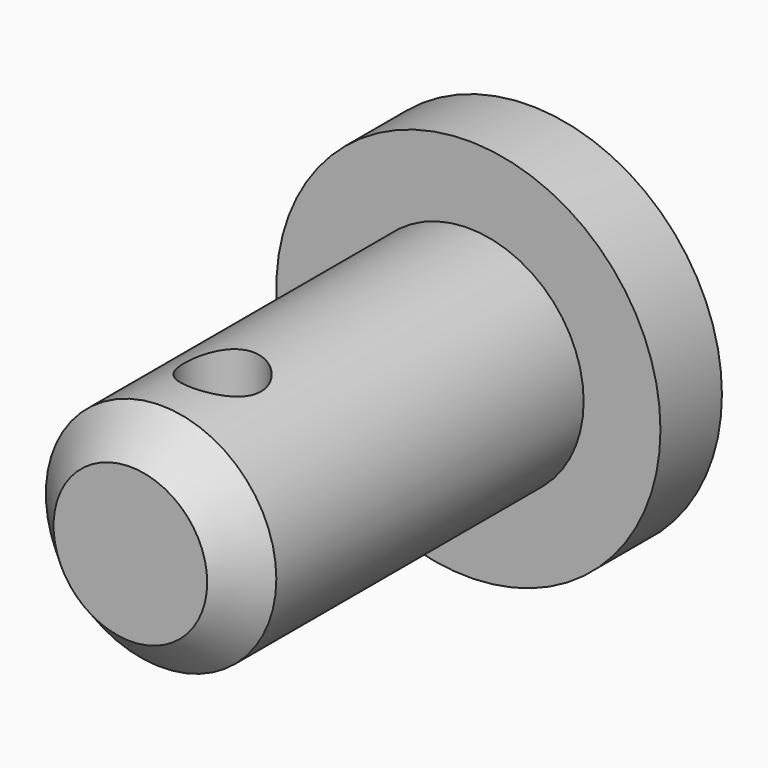
from build123d import *

# Parameters (mm, degrees)
F0_R     = 1.5
F1_DEPTH = 5.5
F0_R_2   = 2.5
F2_DEPTH = 1
F3_SIZE  = 0.5
F4_R     = 0.5
F5_DEPTH = 12.5


with BuildPart() as f1:
    # F0 (on Front) → F1 (new body)
    with BuildSketch(Plane.XZ):
        Circle(F0_R)
    extrude(amount=F1_DEPTH)

    # F0 (on Front) → F2 (join)
    with BuildSketch(Plane.XZ):
        Circle(F0_R_2)
        Circle(F0_R, mode=Mode.SUBTRACT)
        Circle(F0_R)
    extrude(amount=-F2_DEPTH)

    # F3
    f3_edges = [f1.edges().sort_by_distance(p)[0] for p in [
        (-1.5, -5.5, 0),
    ]]
    chamfer(f3_edges, length=F3_SIZE)

    # F4 (on Top) → F5 (cut, symmetric)
    with BuildSketch(Plane.XY):
        with Locations((0, -4)):
            Circle(F4_R)
    extrude(amount=F5_DEPTH, both=True, mode=Mode.SUBTRACT)


solid = f1.part
